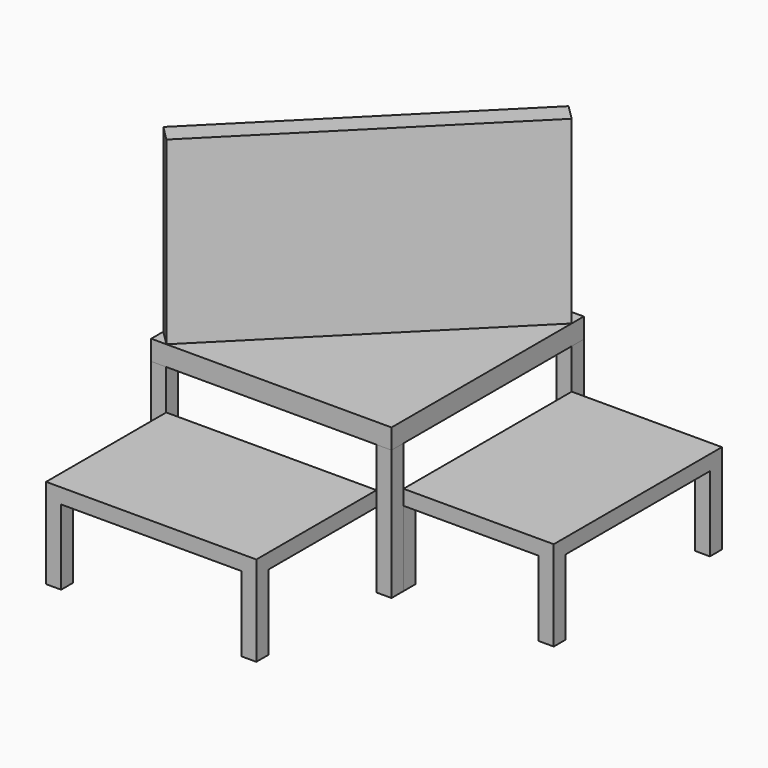
from build123d import *

# Parameters (mm, degrees)
F1_W      = 152.4
F1_H      = 152.4
F2_DEPTH  = 1524
F0_W      = 2438.4
F0_H      = 2438.4
F3_DEPTH  = 203.2
F5_W      = 2133.6
F5_H      = 1524
F6_DEPTH  = 1524
F7_W      = 2133.6
F7_H      = 609.6
F7_W_2    = 1828.8
F7_H_2    = 762
F8_DEPTH  = 1524
F9_W      = 1371.6
F9_H      = 762
F10_DEPTH = 2286.001
F11_W     = 1828.8
F11_H     = 762
F11_W_2   = 2133.6
F11_H_2   = 609.6
F12_DEPTH = 1524
F13_W     = 1371.5806724171
F13_H     = 762
F14_DEPTH = 2286.3102217174
F15_DEPTH = 1828.8


with BuildPart() as f2:
    # F1 (on face) → F2 (new body)
    with BuildSketch(Plane.XY):
        with Locations((-1751.0877370298, 596.9925213552)):
            Rectangle(F1_W, F1_H)
    extrude(amount=-F2_DEPTH)


with BuildPart() as f2b:
    # F1 (on face) → F2, piece 2 (new body)
    with BuildSketch(Plane.XY):
        with Locations((-1751.0877370298, -1689.0074786448)):
            Rectangle(F1_W, F1_H)
    extrude(amount=-F2_DEPTH)


with BuildPart() as f2c:
    # F1 (on face) → F2, piece 3 (new body)
    with BuildSketch(Plane.XY):
        with Locations((534.9122629702, -1689.0074786448)):
            Rectangle(F1_W, F1_H)
    extrude(amount=-F2_DEPTH)


with BuildPart() as f2d:
    # F1 (on face) → F2, piece 4 (new body)
    with BuildSketch(Plane.XY):
        with Locations((534.9122629702, 596.9925213552)):
            Rectangle(F1_W, F1_H)
    extrude(amount=-F2_DEPTH)


with BuildPart() as f3:
    # F0 (on Top) → F3 (new body)
    with BuildSketch(Plane.XY):
        with Locations((-608.0877370298, -546.0074786448)):
            Rectangle(F0_W, F0_H)
    extrude(amount=-F3_DEPTH)


with BuildPart() as f6:
    # F5 (on face) → F6 (new body)
    with BuildSketch(Plane.XY):
        with Locations((-608.0877370298, -2527.2074786448)):
            Rectangle(F5_W, F5_H)
    extrude(amount=-F6_DEPTH)

    # F7 (on face) → F8 (cut, through all)
    with BuildSketch(Plane.XZ.offset(3289.2074786448)):
        with Locations((-608.0877370298, -304.8)):
            Rectangle(F7_W, F7_H)
        with Locations((-608.0877370298, -1143)):
            Rectangle(F7_W_2, F7_H_2)
    extrude(amount=-F8_DEPTH, mode=Mode.SUBTRACT)

    # F9 (on face) → F10 (cut, through all)
    with BuildSketch(Plane.YZ.offset(458.7122629702)):
        with Locations((-2451.0074786448, -1143)):
            Rectangle(F9_W, F9_H)
    extrude(amount=-F10_DEPTH, mode=Mode.SUBTRACT)


with BuildPart() as f6b:
    # F5 (on face) → F6, piece 2 (new body)
    with BuildSketch(Plane.XY):
        Polygon((2135.0929231315, -1612.6142040413), (2134.8223369708, 520.9857788007), (610.8223492265, 520.7925029716), (611.0929353873, -1612.8074798704), align=None)
    extrude(amount=-F6_DEPTH)

    # F11 (on face) → F12 (cut, through all)
    with BuildSketch(Plane(origin=(2134.8883747856, 0.2707495565, 0), x_dir=(-0.0001268214, 0.999999992, 0), z_dir=(0.999999992, 0.0001268214, 0))):
        with Locations((-546.0849665683, -1143)):
            Rectangle(F11_W, F11_H)
        with Locations((-546.0849665683, -1143)):
            Rectangle(F11_W, F11_H)
        with Locations((-546.0849665683, -304.8)):
            Rectangle(F11_W_2, F11_H_2)
    extrude(amount=-F12_DEPTH, mode=Mode.SUBTRACT)

    # F13 (on face) → F14 (cut, through all)
    with BuildSketch(Plane(origin=(0.2045483459, -1612.8849535977, 0), x_dir=(0.999999992, 0.0001268214, 0), z_dir=(0.0001268214, -0.999999992, 0))):
        with Locations((1296.6980557455, -1143)):
            Rectangle(F13_W, F13_H)
        with Locations((1296.6980557455, -1143)):
            Rectangle(F13_W, F13_H)
    extrude(amount=-F14_DEPTH, mode=Mode.SUBTRACT)


with BuildPart() as f15:
    # F4 (on face) → F15 (new body)
    with BuildSketch(Plane.XY):
        Polygon((457.1412205696, 673.1925213552), (-1827.2877370298, -1611.4008426666), (-1673.1633794742, -1765.2074786448), (611.1122629702, 519.2325591882), align=None)
    extrude(amount=F15_DEPTH)


solid = Compound([f2.part, f2b.part, f2c.part, f2d.part, f3.part, f6.part, f6b.part, f15.part])
